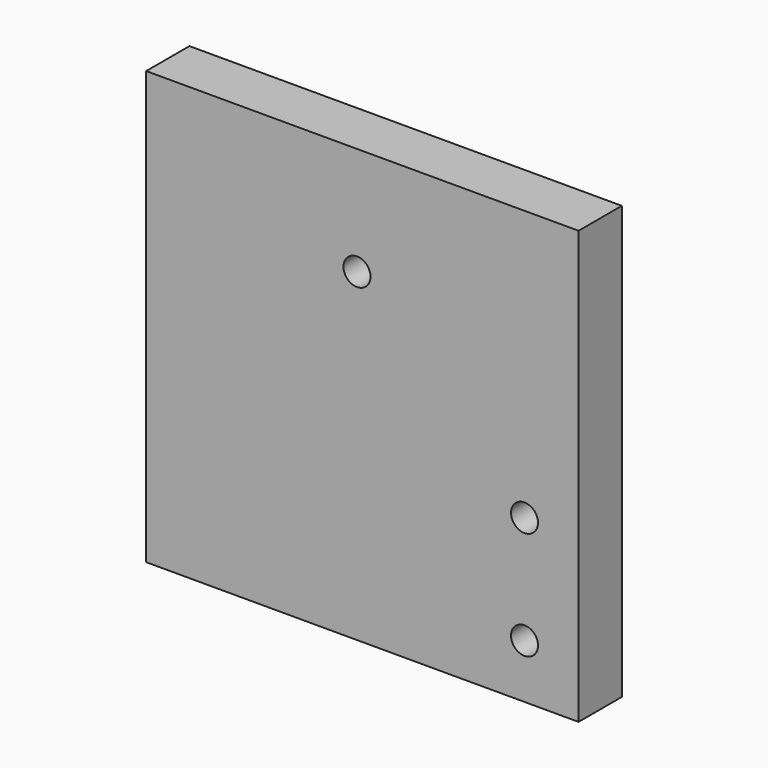
from build123d import *

# Parameters (mm, degrees)
F0_W     = 101.6
F0_H     = 101.6
F1_DEPTH = 12.7
F3_D     = 6.35


with BuildPart() as f1:
    # F0 (on Front) → F1 (new body)
    with BuildSketch(Plane.XZ):
        with Locations((50.8, 50.8)):
            Rectangle(F0_W, F0_H)
    extrude(amount=F1_DEPTH)

    # F3 (through all)
    with Locations(Plane.XZ.offset(12.7)):
        with Locations((88.9, 12.7), (88.9, 38.1), (49.53, 76.2)):
            Hole(F3_D / 2)


solid = f1.part
